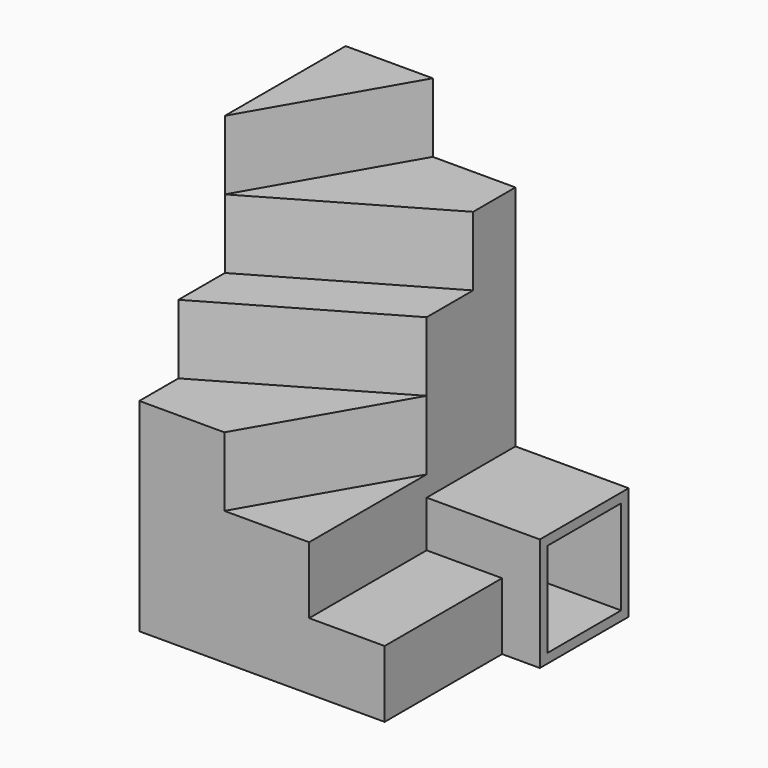
from build123d import *

# Parameters (mm, degrees)
F0_W      = 685.8
F0_H      = 1041.4
F1_DEPTH  = 1657.35
F3_DEPTH  = 279.4
F5_DEPTH  = 279.4
F7_DEPTH  = 279.4
F9_DEPTH  = 279.4
F10_W     = 593.1116652116
F10_H     = 269.875
F11_DEPTH = 304.8
F12_W     = 448.2883347884
F12_H     = 457.2
F13_DEPTH = 457.2
F14_W     = 372.0883347884
F14_H     = 381
F15_DEPTH = 1143.001


with BuildPart() as f1:
    # F0 (on Top) → F1 (new body)
    with BuildSketch(Plane.XY):
        with Locations((342.9, -520.7)):
            Rectangle(F0_W, F0_H)
    extrude(amount=F1_DEPTH)

    # F2 (on face) → F3 (cut)
    with BuildSketch(Plane.XY.offset(1657.35)):
        Polygon((351.952724098, 0), (0, -609.6), (0, -1041.4), (685.8, -1041.4), (685.8, 0), align=None)
    extrude(amount=-F3_DEPTH, mode=Mode.SUBTRACT)

    # F4 (on face) → F5 (cut)
    with BuildSketch(Plane.XY.offset(1377.95)):
        Polygon((0, -609.6), (0, -1041.4), (685.8, -1041.4), (685.8, -213.6531853898), align=None)
    extrude(amount=-F5_DEPTH, mode=Mode.SUBTRACT)

    # F6 (on face) → F7 (cut)
    with BuildSketch(Plane.XY.offset(1098.55)):
        Polygon((685.8, -448.2883347884), (0, -844.2351493987), (0, -1041.4), (685.8, -1041.4), align=None)
    extrude(amount=-F7_DEPTH, mode=Mode.SUBTRACT)

    # F8 (on face) → F9 (cut)
    with BuildSketch(Plane.XY.offset(819.15)):
        Polygon((685.8, -448.2883347884), (343.3668204306, -1041.4), (685.8, -1041.4), align=None)
    extrude(amount=-F9_DEPTH, mode=Mode.SUBTRACT)

    # F10 (on face) → F11 (join)
    with BuildSketch(Plane.YZ.offset(685.8)):
        with Locations((-744.8441673942, 134.9375)):
            Rectangle(F10_W, F10_H)
    extrude(amount=F11_DEPTH)


with BuildPart() as f13:
    # F12 (on face) → F13 (new body)
    with BuildSketch(Plane.YZ.offset(685.8)):
        with Locations((-224.1441673942, 228.6)):
            Rectangle(F12_W, F12_H)
    extrude(amount=F13_DEPTH)

    # F14 (on face) → F15 (cut, through all)
    with BuildSketch(Plane.YZ.offset(1143)):
        with Locations((-224.1441673942, 228.6)):
            Rectangle(F14_W, F14_H)
    extrude(amount=-F15_DEPTH, mode=Mode.SUBTRACT)


solid = Compound([f1.part, f13.part])
